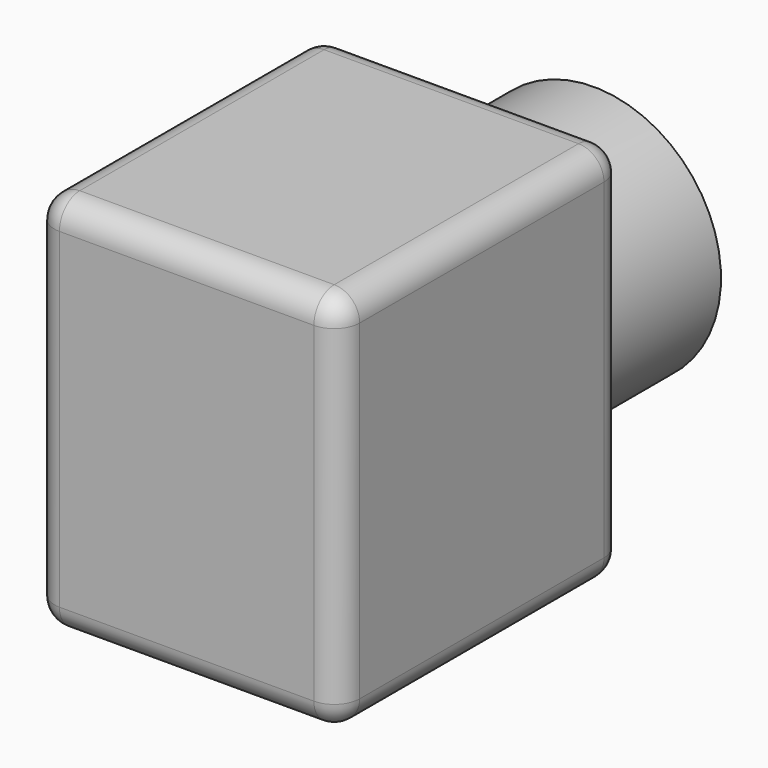
from build123d import *

# Parameters (mm, degrees)
F0_W     = 304.8
F0_H     = 381
F1_DEPTH = 355.6
F2_R     = 25.4
F3_R     = 127
F4_DEPTH = 152.4


with BuildPart() as f1:
    # F0 (on Front) → F1 (new body)
    with BuildSketch(Plane.XZ):
        Rectangle(F0_W, F0_H)
    extrude(amount=F1_DEPTH)

    # F2
    f2_edges = [f1.edges().sort_by_distance(p)[0] for p in [
        (-152.4, -355.6, 0),
        (0, -355.6, 190.5),
        (152.4, -355.6, 0),
        (0, -355.6, -190.5),
        (-152.4, -177.8, -190.5),
        (-152.4, -177.8, 190.5),
        (152.4, -177.8, 190.5),
        (152.4, -177.8, -190.5),
        (0, 0, -190.5),
        (152.4, 0, 0),
        (0, 0, 190.5),
        (-152.4, 0, 0),
    ]]
    fillet(f2_edges, radius=F2_R)

    # F3 (on face) → F4 (join)
    with BuildSketch(Plane(origin=(0, 0, 0), x_dir=(-1, 0, 0), z_dir=(0, 1, 0))):
        Circle(F3_R)
    extrude(amount=F4_DEPTH)


solid = f1.part
